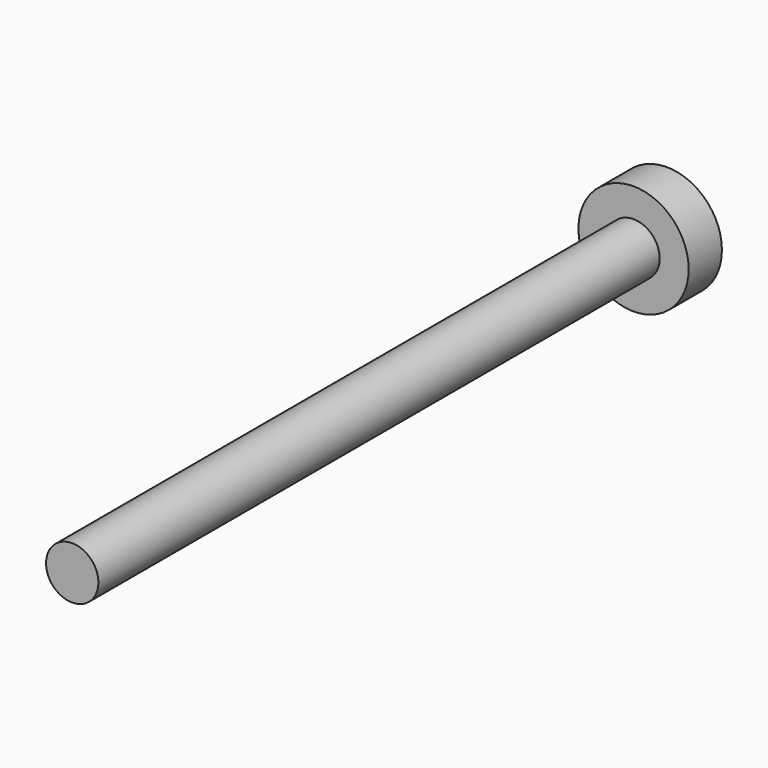
from build123d import *

# Parameters (mm, degrees)
F0_R     = 3.998326
F1_DEPTH = 107.188
F2_R     = 8.4201
F3_DEPTH = 6.35


with BuildPart() as f1:
    # F0 (on Front) → F1 (new body)
    with BuildSketch(Plane.XZ):
        Circle(F0_R)
    extrude(amount=F1_DEPTH)

    # F2 (on Front) → F3 (join)
    with BuildSketch(Plane.XZ):
        Circle(F2_R)
    extrude(amount=-F3_DEPTH)


solid = f1.part
